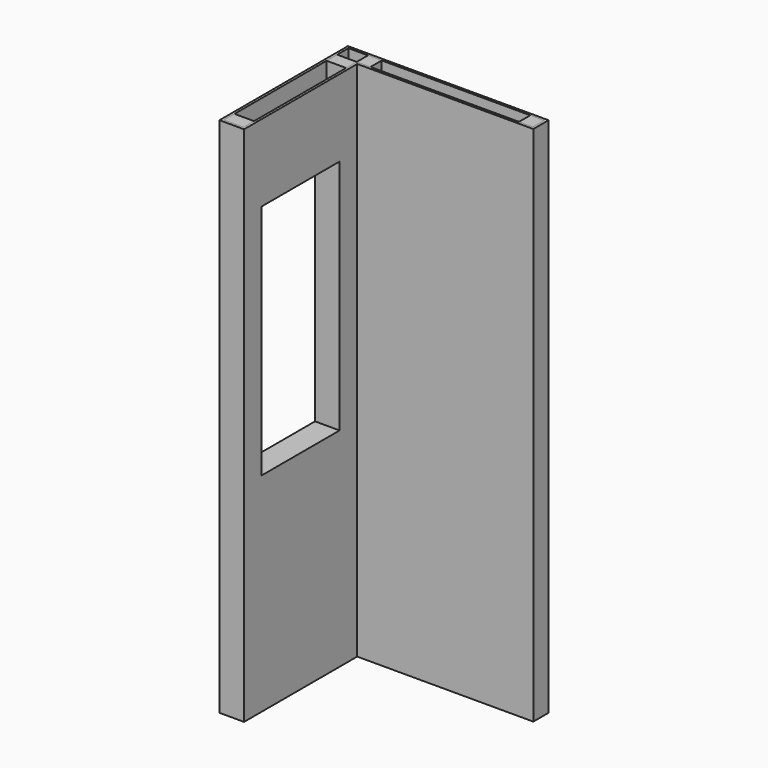
from build123d import *

# Parameters (mm, degrees)
F1_DEPTH = 2600
F0_W     = 97.5000073
F0_H     = 65.6477120058
F2_DEPTH = 2600
F0_W_2   = 68.7130760655
F0_H_2   = 70
F0_W_3   = 68.7645851583
F3_W     = 509.5384602817
F3_H     = 1203.9053440094
F4_DEPTH = 122.5010073
F5_W     = 509.5384602817
F5_H     = 1203.9053440094
F5_W_2   = 485.5384602817
F5_H_2   = 1179.9053440094
F6_DEPTH = 122.5000073


with BuildPart() as f1:
    # F0 (on Top) → F1 (new body)
    with BuildSketch(Plane.XY):
        Polygon((-1297.5909710913, 302.9231998785), (-1175.0909637913, 302.9231998785), (-1175.0909637913, 1007.9231998785), (-297.5909710913, 1007.9231998785), (-297.5909710913, 1102.9231998785), (-1297.5909710913, 1102.9231998785), align=None)
        Polygon((-1118.8778877258, 1020.4231998785), (-1187.5909637913, 1020.4231998785), (-1187.5909637913, 954.7754878728), (-1187.5909637913, 381.0709118843), (-1187.5909637913, 315.4231998785), (-1285.0909710913, 315.4231998785), (-1285.0909710913, 381.0709118843), (-1285.0909710913, 954.7754878728), (-1285.0909710913, 1020.4231998785), (-1285.0909710913, 1090.4231998785), (-1187.5909637913, 1090.4231998785), (-1118.8778877258, 1090.4231998785), (-378.8555562496, 1090.4231998785), (-310.0909710913, 1090.4231998785), (-310.0909710913, 1020.4231998785), (-378.8555562496, 1020.4231998785), align=None, mode=Mode.SUBTRACT)
    extrude(amount=F1_DEPTH)

    # F3 (on face) → F4 (cut, through all)
    with BuildSketch(Plane.YZ.offset(-1175.0909637913)):
        with Locations((655.4231998785, 1626.7749071121)):
            Rectangle(F3_W, F3_H)
    extrude(amount=-F4_DEPTH, mode=Mode.SUBTRACT)

    # F5 (on face) → F6 (join, through all)
    with BuildSketch(Plane(origin=(-1297.5909710913, 0, 0), x_dir=(0, -1, 0), z_dir=(-1, 0, 0))):
        with Locations((-655.4231998785, 1626.7749071121)):
            Rectangle(F5_W, F5_H)
        with Locations((-655.4231998785, 1626.7749071121)):
            Rectangle(F5_W_2, F5_H_2, mode=Mode.SUBTRACT)
    extrude(amount=-F6_DEPTH)


with BuildPart() as f2:
    # F0 (on Top) → F2 (new body)
    with BuildSketch(Plane.XY):
        with Locations((-1236.3409674413, 348.2470558814)):
            Rectangle(F0_W, F0_H)
    extrude(amount=F2_DEPTH)


with BuildPart() as f2b:
    # F0 (on Top) → F2, piece 2 (new body)
    with BuildSketch(Plane.XY):
        with Locations((-1236.3409674413, 987.5993438757)):
            Rectangle(F0_W, F0_H)
    extrude(amount=F2_DEPTH)


with BuildPart() as f2c:
    # F0 (on Top) → F2, piece 3 (new body)
    with BuildSketch(Plane.XY):
        with Locations((-1153.2344257586, 1055.4231998785)):
            Rectangle(F0_W_2, F0_H_2)
    extrude(amount=F2_DEPTH)


with BuildPart() as f2d:
    # F0 (on Top) → F2, piece 4 (new body)
    with BuildSketch(Plane.XY):
        with Locations((-344.4732636705, 1055.4231998785)):
            Rectangle(F0_W_3, F0_H_2)
    extrude(amount=F2_DEPTH)


solid = Compound([f1.part, f2.part, f2b.part, f2c.part, f2d.part])
